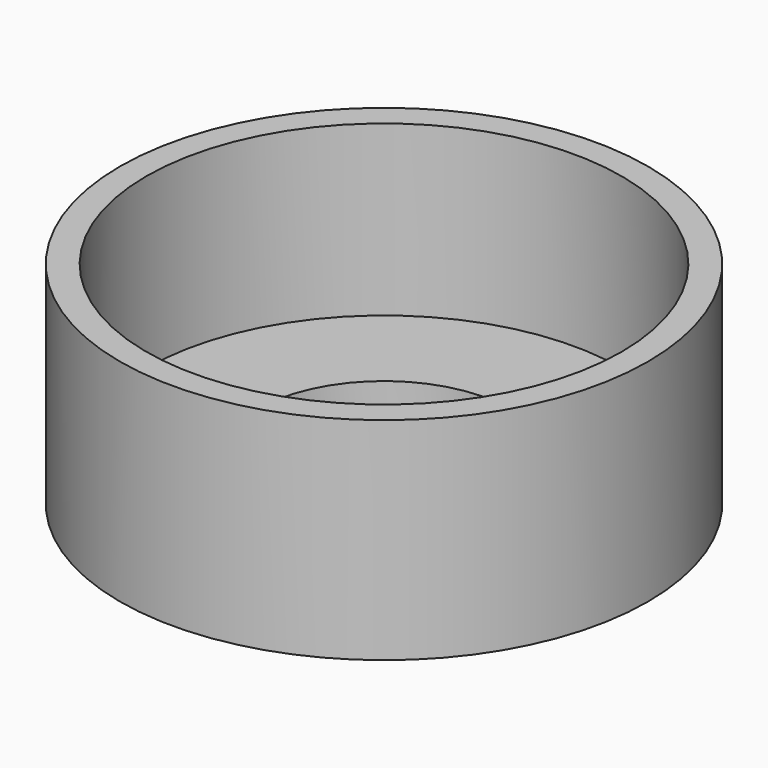
from build123d import *

# Parameters (mm, degrees)
F0_R     = 12.5
F1_DEPTH = 10
F2_R     = 6
F3_DEPTH = 25
F2_R_2   = 11.25
F4_DEPTH = 8


with BuildPart() as f1:
    # F0 (on Top) → F1 (new body)
    with BuildSketch(Plane.XY):
        Circle(F0_R)
    extrude(amount=F1_DEPTH)

    # F2 (on face) → F3 (cut)
    with BuildSketch(Plane.XY.offset(10)):
        Circle(F2_R)
    extrude(amount=-F3_DEPTH, mode=Mode.SUBTRACT)

    # F2 (on face) → F4 (cut)
    with BuildSketch(Plane.XY.offset(10)):
        Circle(F2_R_2)
        Circle(F2_R, mode=Mode.SUBTRACT)
    extrude(amount=-F4_DEPTH, mode=Mode.SUBTRACT)


solid = f1.part
